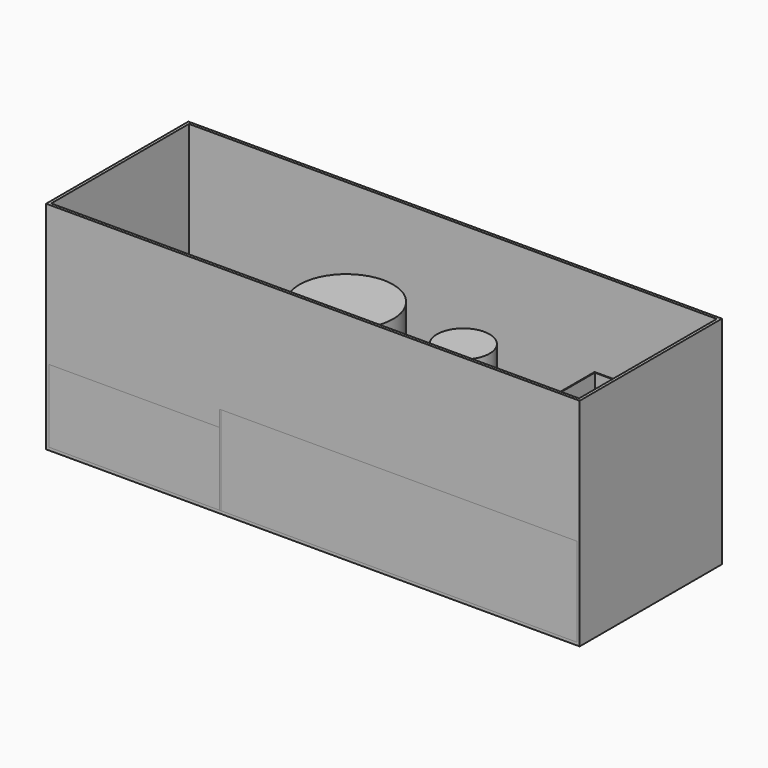
from build123d import *

# Parameters (mm, degrees)
F0_W           = 1500
F0_H           = 500
F0_W_2         = 1484
F0_H_2         = 484
F1_DEPTH       = 8
F2_DEPTH       = 600
F4_W           = 5
F4_H           = 250
F5_DEPTH       = 492
F7_DEPTH       = 200
F7_DEPTH_BACK  = 200
F8_T           = -2.5
F9_R           = 131.4761602714
F10_DEPTH      = 500
F9_R_2         = 73.8496876532
F11_W          = 193.4688985348
F11_H          = 106.2804311514
F12_DEPTH      = 100
F13_R          = 20
F14_DEPTH      = 243
F15_W          = 1000
F15_H          = 250
F16_DEPTH      = 250
F16_DEPTH_BACK = 242
F15_W_2        = 479
F15_H_2        = 204.8108279705


with BuildPart() as f1:
    # F0 (on Top) → F1 (new body)
    with BuildSketch(Plane.XY):
        Rectangle(F0_W, F0_H)
        Rectangle(F0_W_2, F0_H_2, mode=Mode.SUBTRACT)
        Rectangle(F0_W_2, F0_H_2)
    extrude(amount=-F1_DEPTH)


with BuildPart() as f2:
    # F0 (on Top) → F2 (new body)
    with BuildSketch(Plane.XY):
        Rectangle(F0_W, F0_H)
        Rectangle(F0_W_2, F0_H_2, mode=Mode.SUBTRACT)
    extrude(amount=F2_DEPTH)


with BuildPart() as f1_1:
    add(f1.part)

    # F3: union F2
    add(f2.part)


with BuildPart() as f5:
    # F4 (on face) → F5 (new body, through all)
    with BuildSketch(Plane.XZ.offset(250)):
        with Locations((-260.5, 125)):
            Rectangle(F4_W, F4_H)
    extrude(amount=-F5_DEPTH)


with BuildPart() as f7:
    # F6 (on Front) → F7 (new body, two sides)
    with BuildSketch(Plane.XZ) as f7_sk:
        Polygon((432, 235), (472, 235), (702, 235), (742, 235), (742, 385), (432, 385), align=None)
    extrude(amount=-F7_DEPTH)
    extrude(f7_sk.sketch, amount=F7_DEPTH_BACK)

    # F8
    f8_openings = [f7.faces().sort_by_distance(p)[0] for p in [
        (587, 0, 385),
    ]]
    offset(amount=F8_T, openings=f8_openings)

    # F13 (on face) → F14 (join, through all)
    with BuildSketch(Plane(origin=(0, 0, 235), x_dir=(1, 0, 0), z_dir=(0, 0, -1))):
        with Locations((482, 150)):
            Circle(F13_R)
        with Locations((692, 150)):
            Circle(F13_R)
        with Locations((692, -150)):
            Circle(F13_R)
        with Locations((482, -150)):
            Circle(F13_R)
    extrude(amount=F14_DEPTH)


with BuildPart() as f10:
    # F9 (on face) → F10 (new body)
    with BuildSketch(Plane.XY):
        with Locations((-64.0354678035, -52.4545870721)):
            Circle(F9_R)
    extrude(amount=F10_DEPTH)


with BuildPart() as f10b:
    # F9 (on face) → F10, piece 2 (new body)
    with BuildSketch(Plane.XY):
        with Locations((261.5916728973, -48.3672171831)):
            Circle(F9_R_2)
    extrude(amount=F10_DEPTH)


with BuildPart() as f12:
    # F11 (on face) → F12 (new body)
    with BuildSketch(Plane.XY):
        with Locations((-576.319232583, 116.8514415622)):
            Rectangle(F11_W, F11_H)
    extrude(amount=F12_DEPTH)


with BuildPart() as f16:
    # F15 (on Front) → F16 (new body, two sides)
    with BuildSketch(Plane.XZ) as f16_sk:
        with Locations((242, 125)):
            Rectangle(F15_W, F15_H)
    extrude(amount=F16_DEPTH)
    extrude(f16_sk.sketch, amount=-F16_DEPTH_BACK)


with BuildPart() as f16b:
    # F15 (on Front) → F16, piece 2 (new body, two sides)
    with BuildSketch(Plane.XZ) as f16_2_sk:
        with Locations((-502.5, 102.4054139853)):
            Rectangle(F15_W_2, F15_H_2)
    extrude(amount=F16_DEPTH)
    extrude(f16_2_sk.sketch, amount=-F16_DEPTH_BACK)


solid = Compound([f1_1.part, f5.part, f7.part, f10.part, f10b.part, f12.part, f16.part, f16b.part])
